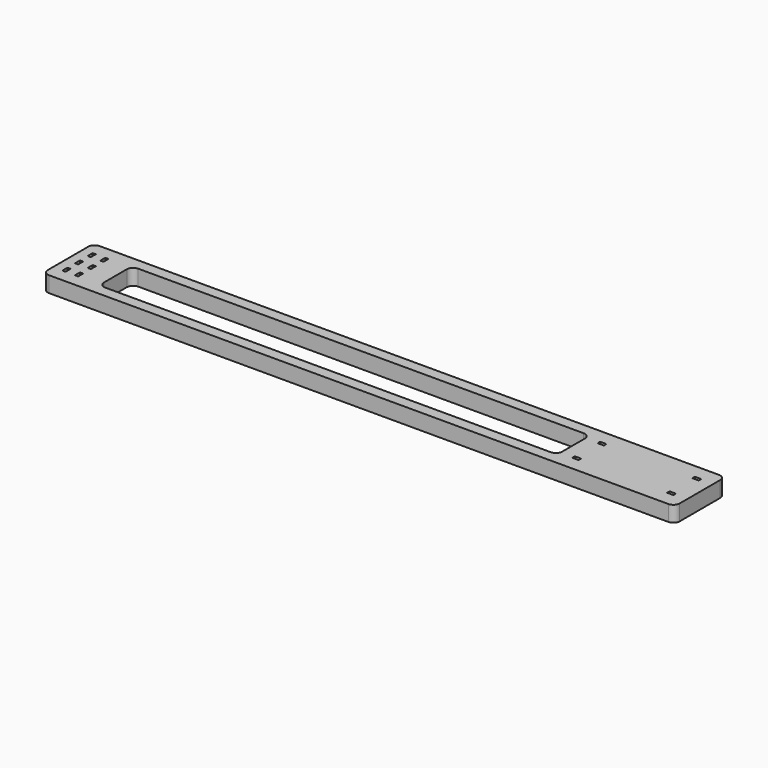
from build123d import *

# Parameters (mm, degrees)
F0_W     = 1
F0_H     = 2
F0_W_2   = 2
F0_H_2   = 1
F1_DEPTH = 5


with BuildPart() as f1:
    # F0 (on Top) → F1 (new body)
    with BuildSketch(Plane.XY):
        with BuildLine():
            ThreePointArc((0, 2), (0.585786, 0.585786), (2, 0))
            Line((2, 0), (198, 0))
            ThreePointArc((198, 0), (199.414214, 0.585786), (200, 2))
            Line((200, 2), (200, 18))
            ThreePointArc((200, 18), (199.414214, 19.414214), (198, 20))
            Line((198, 20), (2, 20))
            ThreePointArc((2, 20), (0.585786, 19.414214), (0, 18))
            Line((0, 18), (0, 2))
        make_face()
        with Locations((3.5, 5)):
            Rectangle(F0_W, F0_H, mode=Mode.SUBTRACT)
        with Locations((7.5, 5)):
            Rectangle(F0_W, F0_H, mode=Mode.SUBTRACT)
        with Locations((165, 5)):
            Rectangle(F0_W_2, F0_H_2, mode=Mode.SUBTRACT)
        with Locations((195, 5)):
            Rectangle(F0_W_2, F0_H_2, mode=Mode.SUBTRACT)
        Polygon((3, 10), (3, 11), (4, 11), (4, 10), (4, 9), (3, 9), align=None, mode=Mode.SUBTRACT)
        with Locations((7.5, 10)):
            Rectangle(F0_W, F0_H, mode=Mode.SUBTRACT)
        with BuildLine():
            Line((17, 16.5), (158, 16.5))
            ThreePointArc((158, 16.5), (159.414214, 15.914214), (160, 14.5))
            Line((160, 14.5), (160, 5.5))
            ThreePointArc((160, 5.5), (159.414214, 4.085786), (158, 3.5))
            Line((158, 3.5), (17, 3.5))
            ThreePointArc((17, 3.5), (15.585786, 4.085786), (15, 5.5))
            Line((15, 5.5), (15, 14.5))
            ThreePointArc((15, 14.5), (15.585786, 15.914214), (17, 16.5))
        make_face(mode=Mode.SUBTRACT)
        with Locations((3.5, 15)):
            Rectangle(F0_W, F0_H, mode=Mode.SUBTRACT)
        with Locations((7.5, 15)):
            Rectangle(F0_W, F0_H, mode=Mode.SUBTRACT)
        with Locations((165, 15)):
            Rectangle(F0_W_2, F0_H_2, mode=Mode.SUBTRACT)
        with Locations((195, 15)):
            Rectangle(F0_W_2, F0_H_2, mode=Mode.SUBTRACT)
    extrude(amount=F1_DEPTH)


solid = f1.part
